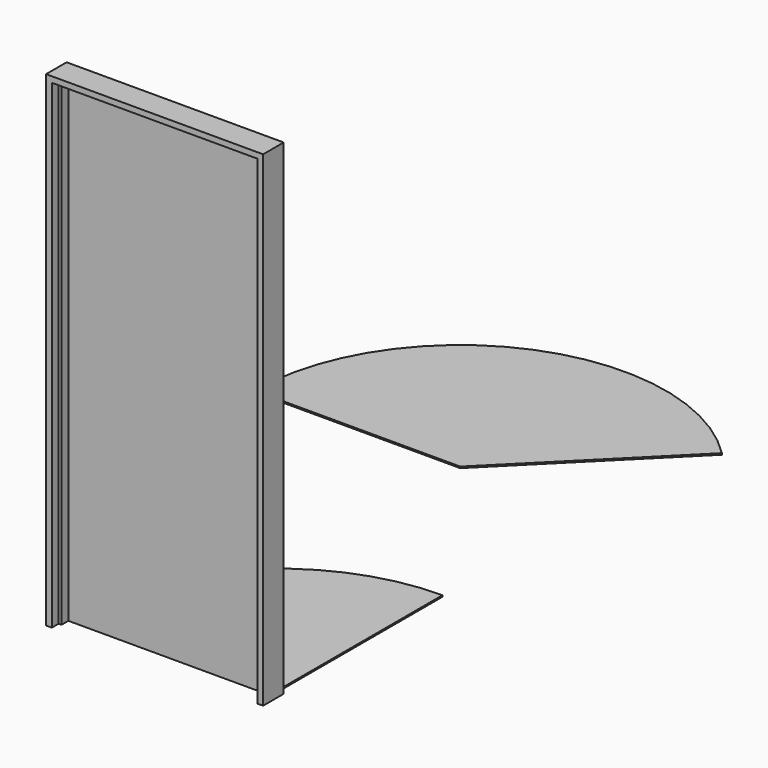
from build123d import *

# Parameters (mm, degrees)
F0_W     = 12.7
F0_H     = 38.1
F1_DEPTH = 2133.6
F2_W     = 38.1
F2_H     = 12.7
F3_DEPTH = 965.2
F4_DEPTH = 2133.6
F5_DEPTH = 6.35


with BuildPart() as f1:
    # F0 (on Top) → F1 (new body)
    with BuildSketch(Plane.XY):
        Polygon((25.4, 19.05), (25.4, 57.15), (0, 57.15), (0, -57.15), (25.4, -57.15), (25.4, -19.05), align=None)
        with Locations((31.75, 0)):
            Rectangle(F0_W, F0_H)
        Polygon((965.2, 57.15), (939.8, 57.15), (939.8, 19.05), (939.8, -19.05), (939.8, -57.15), (965.2, -57.15), align=None)
        with Locations((933.45, 0)):
            Rectangle(F0_W, F0_H)
    extrude(amount=F1_DEPTH)

    # F2 (on face) → F3 (join)
    with BuildSketch(Plane(origin=(0, 0, 0), x_dir=(0, -1, 0), z_dir=(-1, 0, 0))):
        with Locations((0, 2127.25)):
            Rectangle(F2_W, F2_H)
        Polygon((57.15, 2159), (-57.15, 2159), (-57.15, 2133.6), (-19.05, 2133.6), (19.05, 2133.6), (57.15, 2133.6), align=None)
    extrude(amount=-F3_DEPTH)


with BuildPart() as f4:
    # F0 (on Top) → F4 (new body)
    with BuildSketch(Plane.XY):
        Polygon((939.8, 19.05), (939.8, 57.15), (25.4, 57.15), (25.4, 19.05), (38.1, 19.05), (927.1, 19.05), align=None)
    extrude(amount=F4_DEPTH)


with BuildPart() as f5:
    # F0 (on Top) → F5 (new body)
    with BuildSketch(Plane.XY):
        with BuildLine():
            Line((25.4, 57.15), (939.8, 57.15))
            Line((939.8, 57.15), (939.8, 971.55))
            ThreePointArc((939.8, 971.55), (293.221559, 703.728441), (25.4, 57.15))
        make_face()
        with BuildLine():
            ThreePointArc((1030.210208, 2412.163187), (33.706037, 2610.380191), (-530.768232, 1765.584746))
            Line((-530.768232, 1765.584746), (383.631768, 1765.584746))
            Line((383.631768, 1765.584746), (1030.210208, 2412.163187))
        make_face()
    extrude(amount=F5_DEPTH)


solid = Compound([f1.part, f4.part, f5.part])
